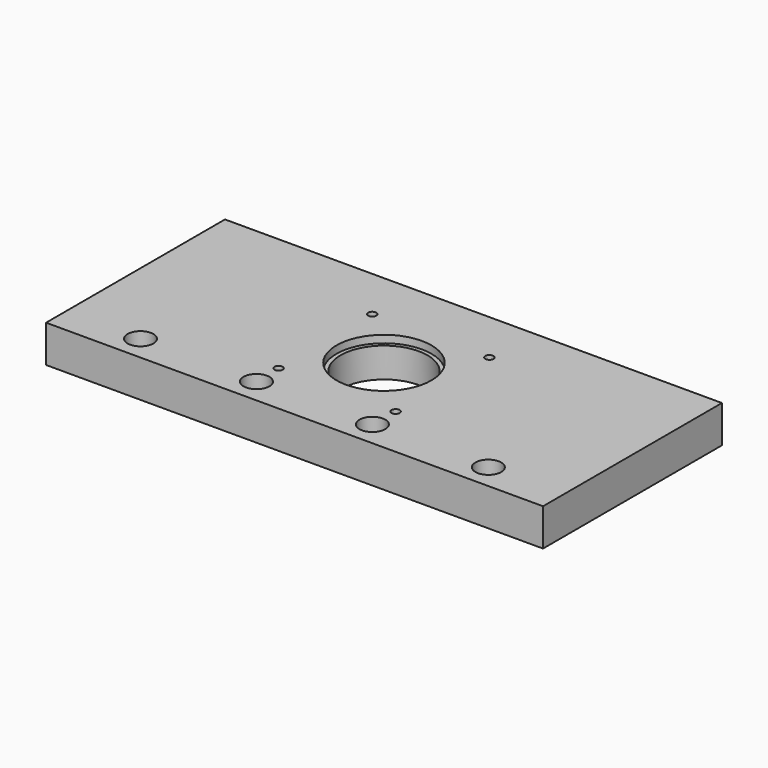
from build123d import *

# Parameters (mm, degrees)
SKETCH_W        = 200
SKETCH_H        = 90
PAD_DEPTH       = 15
SKETCH001_R     = 17.5
SKETCH001_R_2   = 3.25
POCKET_DEPTH    = 15
SKETCH002_R     = 1.65
POCKET001_DEPTH = 15
SKETCH003_R     = 19.1
POCKET002_DEPTH = 3
SKETCH004_R     = 5.2
POCKET003_DEPTH = 7


with BuildPart() as part:
    # Sketch → Pad (new body)
    with BuildSketch(Plane.XY):
        with Locations((100, 45)):
            Rectangle(SKETCH_W, SKETCH_H)
    extrude(amount=PAD_DEPTH)

    # Sketch001 (on Face6 of Pad) → Pocket (cut)
    with BuildSketch(Plane.XY.offset(15)):
        with Locations((100, 45)):
            Circle(SKETCH001_R)
        with Locations((30, 10)):
            Circle(SKETCH001_R_2)
        with Locations((76.67, 10)):
            Circle(SKETCH001_R_2)
        with Locations((123.33, 10)):
            Circle(SKETCH001_R_2)
        with Locations((170, 10)):
            Circle(SKETCH001_R_2)
    extrude(amount=-POCKET_DEPTH, mode=Mode.SUBTRACT)

    # Sketch002 (on Face5 of Pocket) → Pocket001 (cut)
    with BuildSketch(Plane.XY.offset(15)):
        with Locations((76.43, 68.57)):
            Circle(SKETCH002_R)
        with Locations((123.57, 68.57)):
            Circle(SKETCH002_R)
        with Locations((76.43, 21.43)):
            Circle(SKETCH002_R)
        with Locations((123.57, 21.43)):
            Circle(SKETCH002_R)
    extrude(amount=-POCKET001_DEPTH, mode=Mode.SUBTRACT)

    # Sketch003 (on Face5 of Pocket001) → Pocket002 (cut)
    with BuildSketch(Plane.XY.offset(15)):
        with Locations((100, 45)):
            Circle(SKETCH003_R)
    extrude(amount=-POCKET002_DEPTH, mode=Mode.SUBTRACT)

    # Sketch004 (on Face5 of Pocket002) → Pocket003 (cut)
    with BuildSketch(Plane.XY.offset(15)):
        with Locations((30, 10)):
            Circle(SKETCH004_R)
        with Locations((76.67, 10)):
            Circle(SKETCH004_R)
        with Locations((123.33, 10)):
            Circle(SKETCH004_R)
        with Locations((170, 10)):
            Circle(SKETCH004_R)
    extrude(amount=-POCKET003_DEPTH, mode=Mode.SUBTRACT)


solid = part.part
